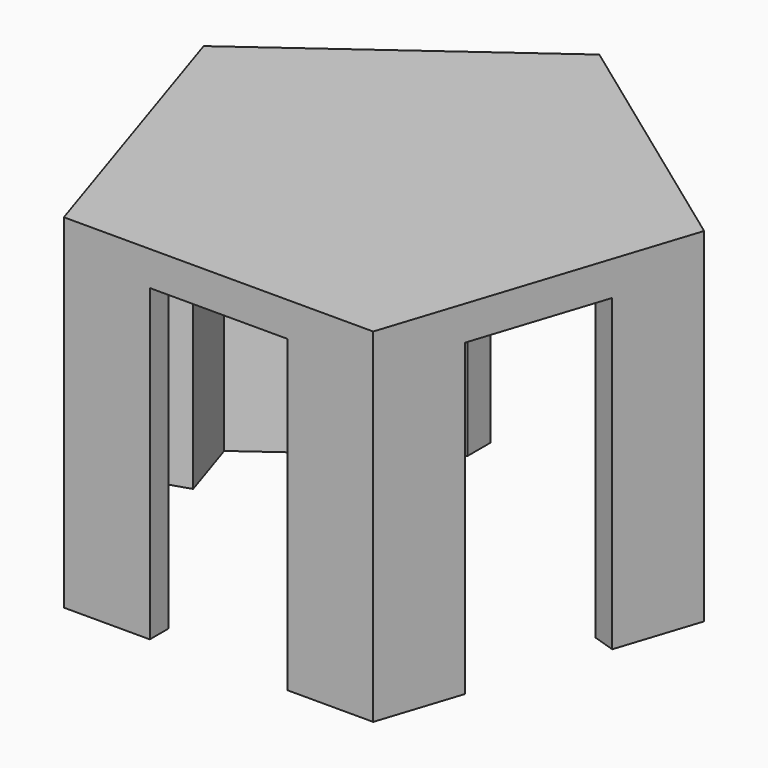
from build123d import *

# Parameters (mm, degrees)
F1_DEPTH = 25.4
F3_DEPTH = 22.86
F4_W     = 10.16
F4_H     = 1.748005039
F5_DEPTH = 22.86


with BuildPart() as f1:
    # F0 (on Top) → F1 (new body)
    with BuildSketch(Plane.XY):
        Polygon((-11.43, -15.732045351), (11.43, -15.732045351), (18.4941284914, 6.0091066115), (0, 19.4458774789), (-18.4941284914, 6.0091066115), align=None)
    extrude(amount=F1_DEPTH)

    # F2 (on Top) → F3 (cut)
    with BuildSketch(Plane.XY):
        Polygon((10.16, -13.984040312), (16.4392253257, 5.3414280991), (0, 17.2852244257), (-16.4392253257, 5.3414280991), (-10.16, -13.984040312), align=None)
    extrude(amount=F3_DEPTH, mode=Mode.SUBTRACT)

    # F4 (on face) → F5 (cut)
    with BuildSketch(Plane(origin=(0, 0, 0), x_dir=(1, 0, 0), z_dir=(0, 0, -1))):
        Polygon((-14.8694189943, -0.5100609964), (-13.2996126628, 4.3213061064), (-14.9620642457, 4.8614693697), (-16.5318705771, 0.030102267), align=None)
        Polygon((-14.9620642457, 4.8614693697), (-13.2996126628, 4.3213061064), (-11.7298063314, 9.1526732092), (-13.3922579143, 9.6928364725), align=None)
        Polygon((11.7298063314, 9.1526732092), (13.2996126628, 4.3213061064), (14.9620642457, 4.8614693697), (13.3922579143, 9.6928364725), align=None)
        Polygon((14.9620642457, 4.8614693697), (13.2996126628, 4.3213061064), (14.8694189943, -0.5100609964), (16.5318705771, 0.030102267), align=None)
        Polygon((0, -19.4458774789), (0, -17.2852244257), (-5.08, -13.5943883834), (-5.08, -15.7550414367), align=None)
        Polygon((5.08, -13.5943883834), (0, -17.2852244257), (0, -19.4458774789), (5.08, -15.7550414367), align=None)
        with Locations((0, 14.8580428315)):
            Rectangle(F4_W, F4_H)
    extrude(amount=-F5_DEPTH, mode=Mode.SUBTRACT)


solid = f1.part
